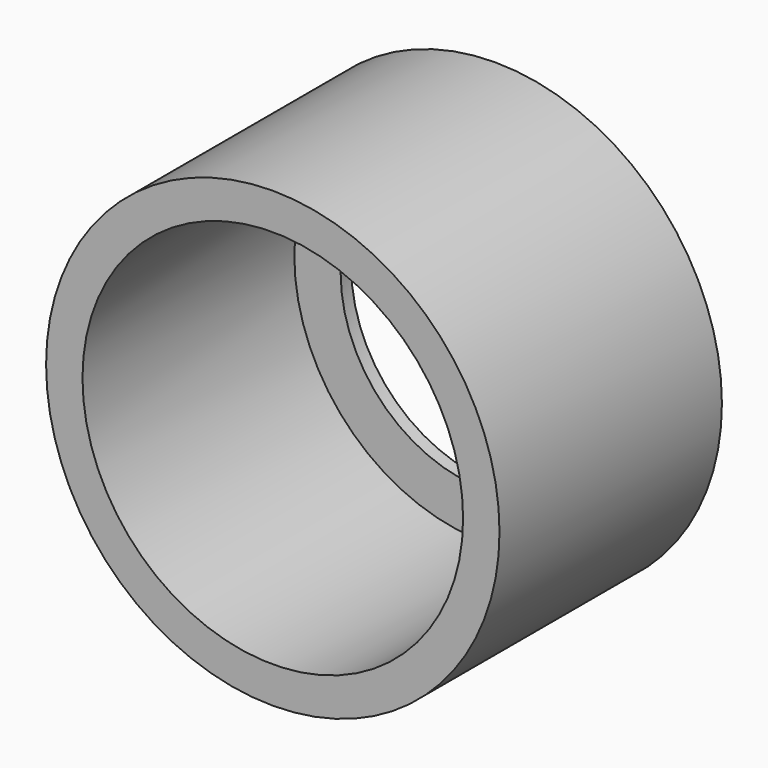
from build123d import *

# Parameters (mm, degrees)
F0_R     = 6.85
F0_R_2   = 5.75
F0_R_3   = 4.35
F1_DEPTH = 8
F2_DEPTH = 25
F3_DEPTH = 0.4


with BuildPart() as f1:
    # F0 (on Front) → F1 (new body)
    with BuildSketch(Plane.XZ):
        Circle(F0_R)
        Circle(F0_R_2, mode=Mode.SUBTRACT)
        Circle(F0_R_2)
        Circle(F0_R_3, mode=Mode.SUBTRACT)
        Circle(F0_R_3)
    extrude(amount=F1_DEPTH)

    # F0 (on Front) → F2 (cut)
    with BuildSketch(Plane.XZ):
        Circle(F0_R_2)
        Circle(F0_R_3, mode=Mode.SUBTRACT)
        Circle(F0_R_3)
    extrude(amount=F2_DEPTH, mode=Mode.SUBTRACT)

    # F0 (on Front) → F3 (join)
    with BuildSketch(Plane.XZ):
        Circle(F0_R)
        Circle(F0_R_2, mode=Mode.SUBTRACT)
        Circle(F0_R_2)
        Circle(F0_R_3, mode=Mode.SUBTRACT)
    extrude(amount=-F3_DEPTH)


solid = f1.part
